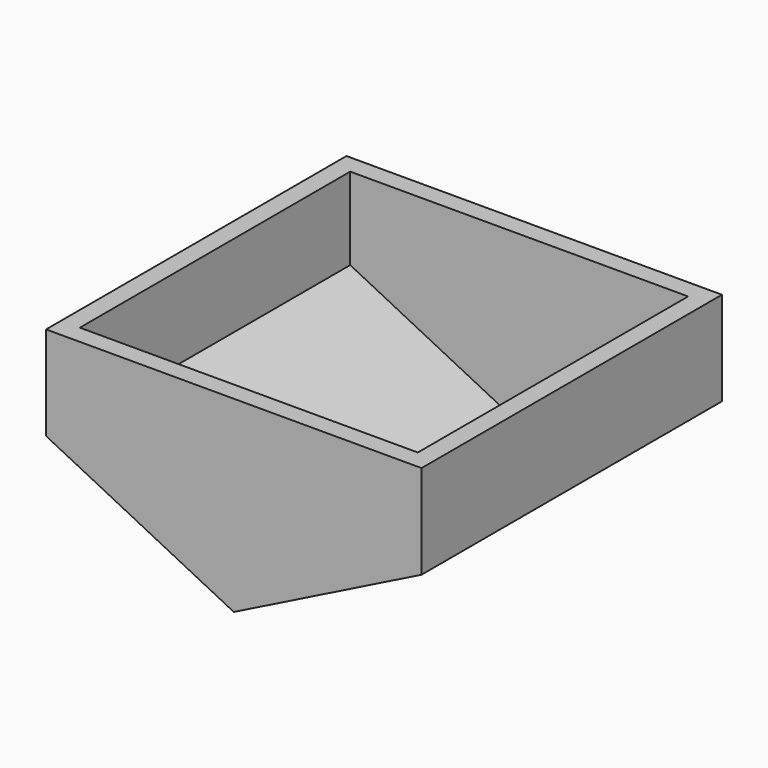
from build123d import *

# Parameters (mm, degrees)
F1_DEPTH = 50.8
F2_T     = -2.54


with BuildPart() as f1:
    # F0 (on Front) → F1 (new body)
    with BuildSketch(Plane.XZ):
        Polygon((0, -25.4), (0, 0), (-25.4, 0), (-25.4, -12.702317), align=None)
        Polygon((25.4, 0), (0, 0), (0, -25.4), (25.4, -12.702317), align=None)
    extrude(amount=F1_DEPTH)

    # F2
    f2_openings = [f1.faces().sort_by_distance(p)[0] for p in [
        (0, -25.4, 0),
    ]]
    offset(amount=F2_T, openings=f2_openings)


solid = f1.part
